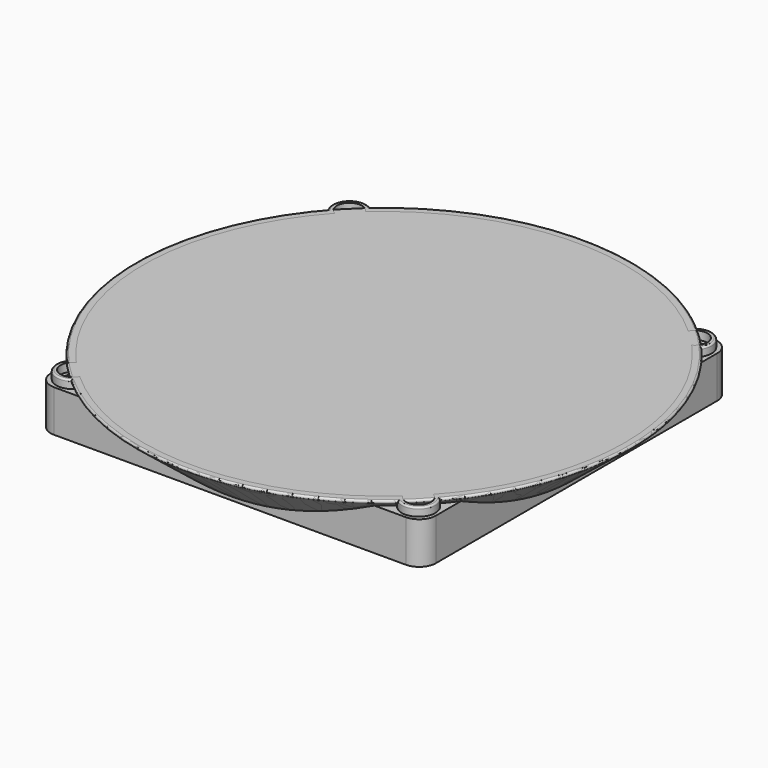
from build123d import *

# Parameters (mm, degrees)
FILLET_R          = 0.4
CYLINDER009_R     = 3
CYLINDER009_DEPTH = 12
CYLINDER010_R     = 3
CYLINDER010_DEPTH = 12
CYLINDER011_R     = 3
CYLINDER011_DEPTH = 12
CYLINDER012_R     = 3
CYLINDER012_DEPTH = 12
CYLINDER_R        = 45
CYLINDER_DEPTH    = 18
CYLINDER008_R     = 2
CYLINDER008_DEPTH = 12
CYLINDER006_R     = 2
CYLINDER006_DEPTH = 12
CYLINDER007_R     = 2
CYLINDER007_DEPTH = 12
CYLINDER005_R     = 2
CYLINDER005_DEPTH = 12
CYLINDER002_R     = 4
CYLINDER002_DEPTH = 12
CYLINDER004_R     = 4
CYLINDER004_DEPTH = 12
CYLINDER003_R     = 4
CYLINDER003_DEPTH = 12
BOX_W             = 92
BOX_H             = 92
BOX_DEPTH         = 10
CYLINDER001_R     = 4
CYLINDER001_DEPTH = 12
FILLET001_R       = 0.4
FILLET002_R       = 4


with BuildPart() as cone:
    # Cone → Cone (revolve)
    with BuildSketch(Plane.XZ):
        Polygon((0, 0), (45, 0), (60, 12), (0, 12), align=None)
    revolve(axis=Axis((0, 0, 0), (0, 0, 1)))


with BuildPart() as fillet_body:
    # Fillet base: copy of Cone
    add(cone.part)

    # Fillet
    fillet_edges = [fillet_body.edges().sort_by_distance(p)[0] for p in [
        (-60, 0, 12),
    ]]
    fillet(fillet_edges, radius=FILLET_R)


with BuildPart() as cylinder009:
    # Cylinder009 → Cylinder009 (new body)
    with BuildSketch(Plane(origin=(41.25, 41.25, 10), x_dir=(1, 0, 0), z_dir=(0, 0, 1))):
        Circle(CYLINDER009_R)
    extrude(amount=CYLINDER009_DEPTH)


with BuildPart() as cylinder010:
    # Cylinder010 → Cylinder010 (new body)
    with BuildSketch(Plane(origin=(-41.25, 41.25, 10), x_dir=(1, 0, 0), z_dir=(0, 0, 1))):
        Circle(CYLINDER010_R)
    extrude(amount=CYLINDER010_DEPTH)


with BuildPart() as cylinder011:
    # Cylinder011 → Cylinder011 (new body)
    with BuildSketch(Plane(origin=(-41.25, -41.25, 10), x_dir=(1, 0, 0), z_dir=(0, 0, 1))):
        Circle(CYLINDER011_R)
    extrude(amount=CYLINDER011_DEPTH)


with BuildPart() as fusion004:
    # Cylinder012 → Cylinder012 (new body)
    with BuildSketch(Plane(origin=(41.25, -41.25, 10), x_dir=(1, 0, 0), z_dir=(0, 0, 1))):
        Circle(CYLINDER012_R)
    extrude(amount=CYLINDER012_DEPTH)

    # Fusion004: union Cylinder009, Cylinder010, Cylinder011
    add(cylinder009.part)
    add(cylinder010.part)
    add(cylinder011.part)


with BuildPart() as cone001:
    # Cone001 → Cone001 (revolve)
    with BuildSketch(Plane(origin=(0, 0, 2), x_dir=(1, 0, 0), z_dir=(0, -1, 0))):
        Polygon((0, 0), (45, 0), (60, 12), (0, 12), align=None)
    revolve(axis=Axis((0, 0, 2), (0, 0, 1)))


with BuildPart() as void:
    # Cylinder → Cylinder (new body)
    with BuildSketch(Plane.XY.offset(-3)):
        Circle(CYLINDER_R)
    extrude(amount=CYLINDER_DEPTH)

    # Fusion: union Cone001
    add(cone001.part)


with BuildPart() as cylinder008:
    # Cylinder008 → Cylinder008 (new body)
    with BuildSketch(Plane(origin=(41.25, -41.25, 0), x_dir=(1, 0, 0), z_dir=(0, 0, 1))):
        Circle(CYLINDER008_R)
    extrude(amount=CYLINDER008_DEPTH)


with BuildPart() as cylinder006:
    # Cylinder006 → Cylinder006 (new body)
    with BuildSketch(Plane(origin=(-41.25, 41.25, 0), x_dir=(1, 0, 0), z_dir=(0, 0, 1))):
        Circle(CYLINDER006_R)
    extrude(amount=CYLINDER006_DEPTH)


with BuildPart() as cylinder007:
    # Cylinder007 → Cylinder007 (new body)
    with BuildSketch(Plane(origin=(-41.25, -41.25, 0), x_dir=(1, 0, 0), z_dir=(0, 0, 1))):
        Circle(CYLINDER007_R)
    extrude(amount=CYLINDER007_DEPTH)


with BuildPart() as screwhole_voids:
    # Cylinder005 → Cylinder005 (new body)
    with BuildSketch(Plane(origin=(41.25, 41.25, 0), x_dir=(1, 0, 0), z_dir=(0, 0, 1))):
        Circle(CYLINDER005_R)
    extrude(amount=CYLINDER005_DEPTH)

    # Fusion003: union Cylinder008, Cylinder006, Cylinder007
    add(cylinder008.part)
    add(cylinder006.part)
    add(cylinder007.part)


with BuildPart() as cylinder002:
    # Cylinder002 → Cylinder002 (new body)
    with BuildSketch(Plane(origin=(-41.25, 41.25, 0), x_dir=(1, 0, 0), z_dir=(0, 0, 1))):
        Circle(CYLINDER002_R)
    extrude(amount=CYLINDER002_DEPTH)


with BuildPart() as cylinder004:
    # Cylinder004 → Cylinder004 (new body)
    with BuildSketch(Plane(origin=(-41.25, -41.25, 0), x_dir=(1, 0, 0), z_dir=(0, 0, 1))):
        Circle(CYLINDER004_R)
    extrude(amount=CYLINDER004_DEPTH)


with BuildPart() as cylinder003:
    # Cylinder003 → Cylinder003 (new body)
    with BuildSketch(Plane(origin=(41.25, -41.25, 0), x_dir=(1, 0, 0), z_dir=(0, 0, 1))):
        Circle(CYLINDER003_R)
    extrude(amount=CYLINDER003_DEPTH)


with BuildPart() as cube:
    # Box → Box (new body)
    with BuildSketch(Plane(origin=(-46, -46, 0), x_dir=(1, 0, 0), z_dir=(0, 0, 1))):
        with Locations((46, 46)):
            Rectangle(BOX_W, BOX_H)
    extrude(amount=BOX_DEPTH)


with BuildPart() as main:
    # Fusion001 base: copy of Cone
    add(cone.part)

    # Fusion001: union Cube
    add(cube.part)


with BuildPart() as fillet002:
    # Cylinder001 → Cylinder001 (new body)
    with BuildSketch(Plane(origin=(41.25, 41.25, 0), x_dir=(1, 0, 0), z_dir=(0, 0, 1))):
        Circle(CYLINDER001_R)
    extrude(amount=CYLINDER001_DEPTH)

    # Fusion002: union Cylinder002, Cylinder004, Cylinder003, Main
    add(cylinder002.part)
    add(cylinder004.part)
    add(cylinder003.part)
    add(main.part)

    # Cut: cut Screwhole Voids
    add(screwhole_voids.part, mode=Mode.SUBTRACT)

    # Cut001: cut Void
    add(void.part, mode=Mode.SUBTRACT)

    # Cut002: cut Fusion004
    add(fusion004.part, mode=Mode.SUBTRACT)

    # Fillet001
    fillet001_edges = [fillet002.edges().sort_by_distance(p)[0] for p in [
        (45.175193, 40.480027, 12),
        (43.481078, 44.569984, 12),
        (56.112451, 21.246009, 12),
        (0, 60, 12),
        (56.112451, -21.246009, 12),
        (-44.078427, 44.078427, 12),
        (-60, 0, 12),
        (0, -60, 12),
        (43.481078, -44.569984, 12),
        (-44.078427, -44.078427, 12),
    ]]
    fillet(fillet001_edges, radius=FILLET001_R)

    # Fillet002
    fillet002_edges = [fillet002.edges().sort_by_distance(p)[0] for p in [
        (46, 46, 5),
        (-46, 46, 5),
        (46, -46, 5),
        (-46, -46, 5),
    ]]
    fillet(fillet002_edges, radius=FILLET002_R)


solid = Compound([fillet_body.part, fillet002.part])
